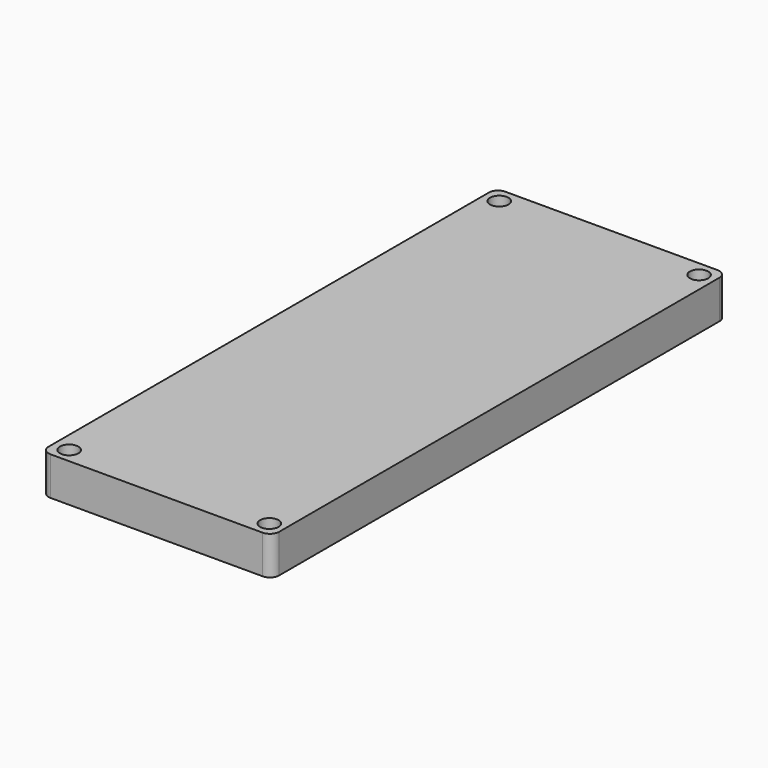
from build123d import *

# Parameters (mm, degrees)
F0_W     = 3810
F0_H     = 9398
F0_R     = 152.4
F1_DEPTH = 635
F2_R     = 152.4


with BuildPart() as f1:
    # F0 (on Top) → F1 (new body)
    with BuildSketch(Plane.XY):
        with Locations((-250.41859, 4.441164)):
            Rectangle(F0_W, F0_H)
        with Locations((-1891.046224, -4448.836919)):
            Circle(F0_R, mode=Mode.SUBTRACT)
        with Locations((1410.944803, -4441.138911)):
            Circle(F0_R, mode=Mode.SUBTRACT)
        with Locations((-1901.41859, 4449.441164)):
            Circle(F0_R, mode=Mode.SUBTRACT)
        with Locations((1400.58141, 4449.441164)):
            Circle(F0_R, mode=Mode.SUBTRACT)
    extrude(amount=F1_DEPTH)

    # F2
    f2_edges = [f1.edges().sort_by_distance(p)[0] for p in [
        (1654.58141, 4703.441164, 317.5),
        (-2155.41859, 4703.441164, 317.5),
        (-2155.41859, -4694.558836, 317.5),
        (1654.58141, -4694.558836, 317.5),
    ]]
    fillet(f2_edges, radius=F2_R)


solid = f1.part
